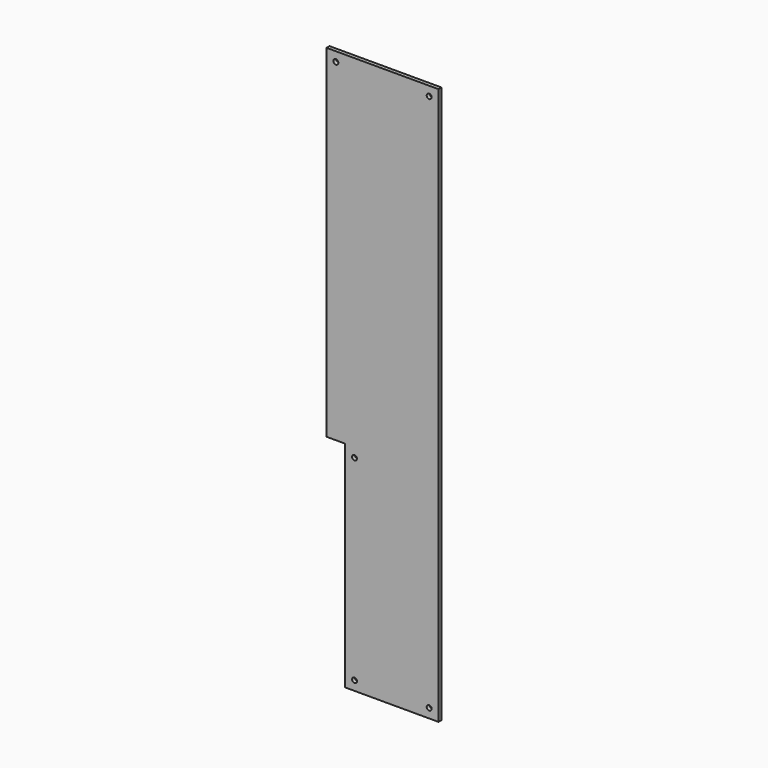
from build123d import *

# Parameters (mm, degrees)
F0_R     = 2.65
F1_DEPTH = 4


with BuildPart() as f1:
    # F0 (on Front) → F1 (new body)
    with BuildSketch(Plane.XZ):
        Polygon((-204.861127, -11.760555), (-184.861127, -11.760555), (-184.861127, -241.760555), (-134.861127, -241.760555), (-84.861127, -241.760555), (-84.861127, -11.760555), (-84.861127, 355.239445), (-144.861127, 355.239445), (-204.861127, 355.239445), align=None)
        with Locations((-174.861127, -231.760555)):
            Circle(F0_R, mode=Mode.SUBTRACT)
        with Locations((-174.861127, -21.760555)):
            Circle(F0_R, mode=Mode.SUBTRACT)
        with Locations((-94.861127, -231.760555)):
            Circle(F0_R, mode=Mode.SUBTRACT)
        with Locations((-194.861127, 345.239445)):
            Circle(F0_R, mode=Mode.SUBTRACT)
        with Locations((-94.861127, 345.239445)):
            Circle(F0_R, mode=Mode.SUBTRACT)
    extrude(amount=F1_DEPTH)


solid = f1.part
